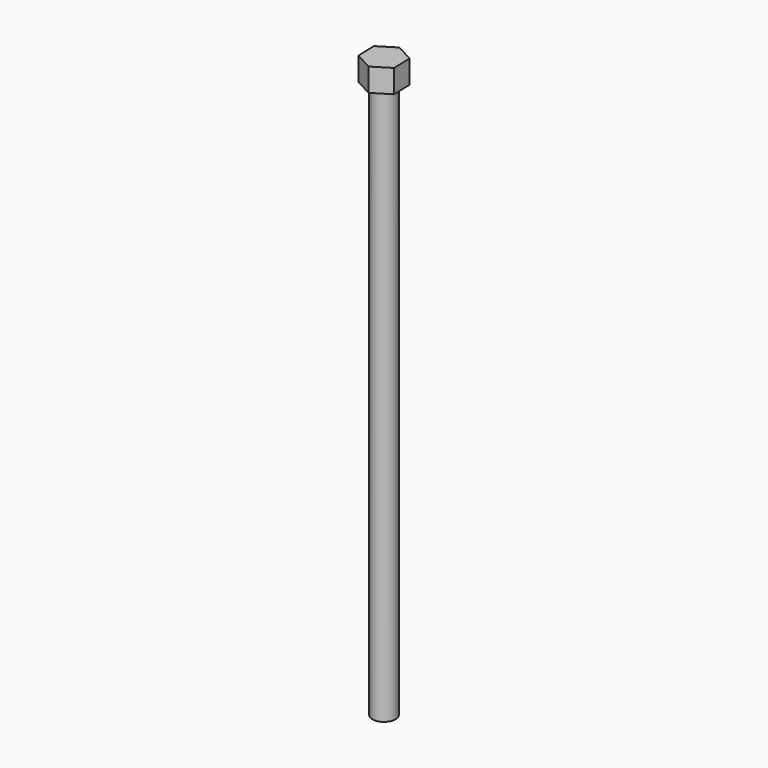
from build123d import *

# Parameters (mm, degrees)
F0_R     = 4
F1_DEPTH = 200
F3_DEPTH = 8


with BuildPart() as f1:
    # F0 (on Top) → F1 (new body)
    with BuildSketch(Plane.XY):
        Circle(F0_R)
    extrude(amount=F1_DEPTH)

    # F2 (on face) → F3 (join)
    with BuildSketch(Plane.XY.offset(200)):
        Polygon((5.900696, 3.666764), (-0.225163, 6.943534), (-6.125859, 3.276771), (-5.900696, -3.666764), (0.225163, -6.943534), (6.125859, -3.276771), align=None)
    extrude(amount=-F3_DEPTH)


solid = f1.part
